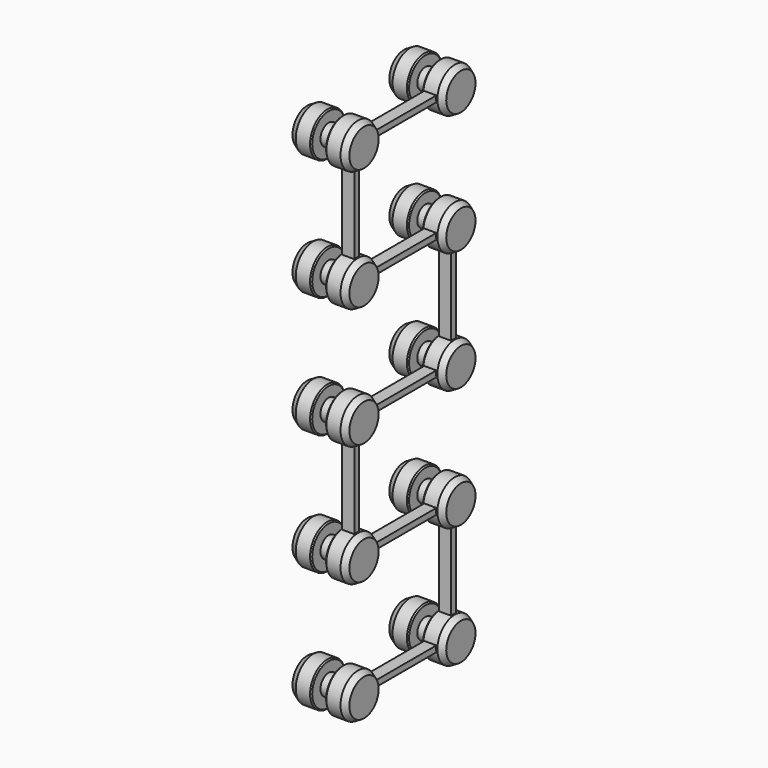
from build123d import *

# Parameters (mm, degrees)
PAD_DEPTH = 1


with BuildPart() as obj1:
    # Sketch → Revolution (revolve)
    with BuildSketch(Plane.XZ):
        Polygon((0, 0), (0, 1.511325), (-0.5, 1.8), (-1.67, 1.8), (-1.77, 1.7), (-1.77, 0.85), (-2.92, 0.85), (-2.92, 1.7), (-3.02, 1.8), (-4.2, 1.8), (-4.7, 1.511325), (-4.7, 0), align=None)
    revolve(axis=Axis((0, 0, 0), (1, 0, 0)))


with BuildPart() as body004:
    # Body004 base: copy of obj1
    add(obj1.part)


with BuildPart() as body004_1:
    # Body004 placement: moved
    add(body004.part.moved(Location((0, 0, 40))))


with BuildPart() as body010:
    # Body010 base: copy of Body004
    add(body004_1.part)


with BuildPart() as body010_1:
    # Body010 placement: moved
    add(body010.part.moved(Location((0, 10, 0))))


with BuildPart() as body003:
    # Body003 base: copy of obj1
    add(obj1.part)


with BuildPart() as body003_1:
    # Body003 placement: moved
    add(body003.part.moved(Location((0, 0, 30))))


with BuildPart() as body009:
    # Body009 base: copy of Body003
    add(body003_1.part)


with BuildPart() as body009_1:
    # Body009 placement: moved
    add(body009.part.moved(Location((0, 10, 0))))


with BuildPart() as body002:
    # Body002 base: copy of obj1
    add(obj1.part)


with BuildPart() as body002_1:
    # Body002 placement: moved
    add(body002.part.moved(Location((0, 0, 20))))


with BuildPart() as body008:
    # Body008 base: copy of Body002
    add(body002_1.part)


with BuildPart() as body008_1:
    # Body008 placement: moved
    add(body008.part.moved(Location((0, 10, 0))))


with BuildPart() as body006:
    # Body006 base: copy of obj1
    add(obj1.part)


with BuildPart() as body006_1:
    # Body006 placement: moved
    add(body006.part.moved(Location((0, 10, 0))))


with BuildPart() as body001:
    # Body001 base: copy of obj1
    add(obj1.part)


with BuildPart() as body001_1:
    # Body001 placement: moved
    add(body001.part.moved(Location((0, 0, 10))))


with BuildPart() as body007:
    # Body007 base: copy of Body001
    add(body001_1.part)


with BuildPart() as body007_1:
    # Body007 placement: moved
    add(body007.part.moved(Location((0, 10, 0))))


with BuildPart() as obj2:
    # Sketch002 → Pad (new body)
    with BuildSketch(Plane.YZ.offset(-0.6)):
        Polygon((0, -0.25), (10.25, -0.25), (10.25, 10.25), (0.25, 10.25), (0.25, 19.75), (10.25, 19.75), (10.25, 30.25), (0.25, 30.25), (0.25, 39.75), (10, 39.75), (10, 40.25), (-0.25, 40.25), (-0.25, 29.75), (9.75, 29.75), (9.75, 20.25), (-0.25, 20.25), (-0.25, 9.75), (9.75, 9.75), (9.75, 0.25), (0, 0.25), (0, 0), align=None)
    extrude(amount=-PAD_DEPTH)

    # Boolean: union Body010, Body009, Body008, Body006, Body007, Body004, Body002, Body003, Body001, obj1
    add(body010_1.part)
    add(body009_1.part)
    add(body008_1.part)
    add(body006_1.part)
    add(body007_1.part)
    add(body004_1.part)
    add(body002_1.part)
    add(body003_1.part)
    add(body001_1.part)
    add(obj1.part)


solid = obj2.part
